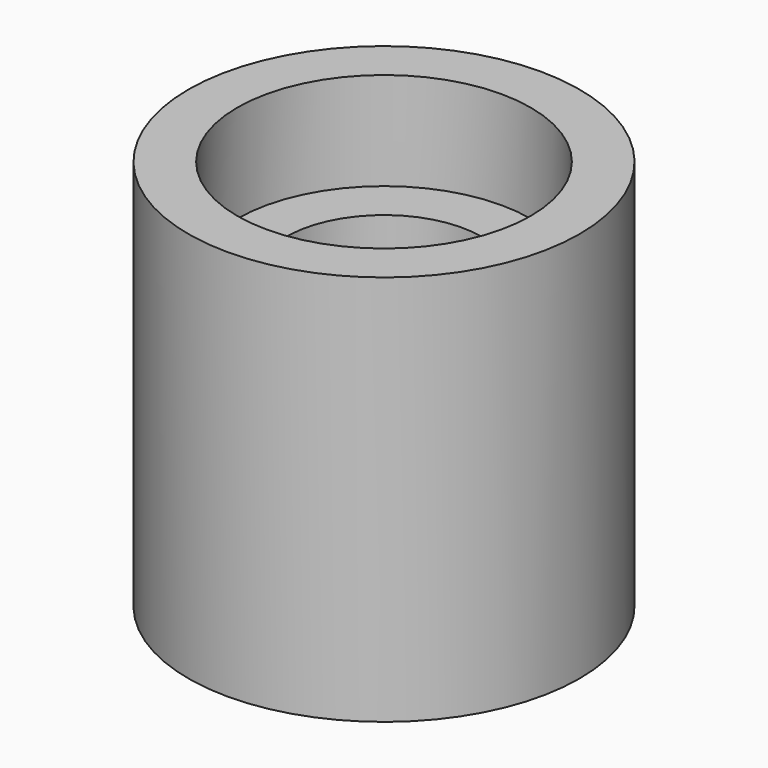
from build123d import *

# Parameters (mm, degrees)
F0_R     = 12.5
F1_DEPTH = 25
F0_R_2   = 25
F2_DEPTH = 50
F0_R_3   = 37.5
F3_DEPTH = 75
F0_R_4   = 50
F4_DEPTH = 100
F5_D     = 5


with BuildPart() as f1:
    # F0 (on Top) → F1 (new body)
    with BuildSketch(Plane.XY):
        Circle(F0_R)
    extrude(amount=F1_DEPTH)

    # F0 (on Top) → F2 (join)
    with BuildSketch(Plane.XY):
        Circle(F0_R_2)
        Circle(F0_R, mode=Mode.SUBTRACT)
    extrude(amount=F2_DEPTH)

    # F0 (on Top) → F3 (join)
    with BuildSketch(Plane.XY):
        Circle(F0_R_3)
        Circle(F0_R_2, mode=Mode.SUBTRACT)
    extrude(amount=F3_DEPTH)

    # F0 (on Top) → F4 (join)
    with BuildSketch(Plane.XY):
        Circle(F0_R_4)
        Circle(F0_R_3, mode=Mode.SUBTRACT)
    extrude(amount=F4_DEPTH)

    # F5 (through all)
    with Locations(Plane(origin=(0, 0, 0), x_dir=(1, 0, 0), z_dir=(0, 0, -1))):
        with Locations((0, 0)):
            Hole(F5_D / 2)


solid = f1.part
